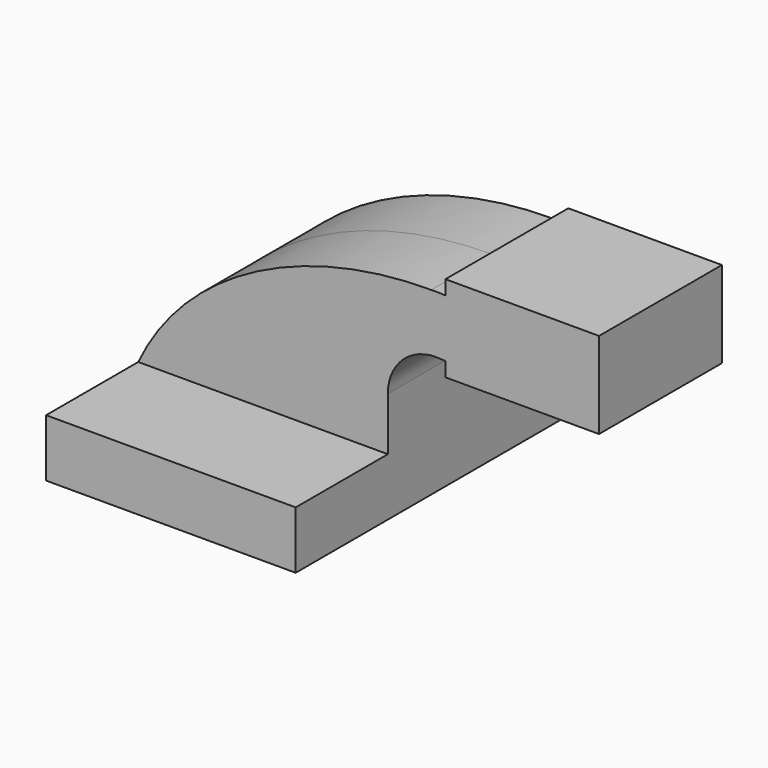
from build123d import *

# Parameters (mm, degrees)
F1_DEPTH = 63.5
F0_W     = 25.4
F0_H     = 4.7752
F0_H_2   = 19.05
F0_H_3   = 4.7498
F2_DEPTH = 25.4


with BuildPart() as f1:
    # F0 (on Front) → F1 (new body, symmetric)
    with BuildSketch(Plane.XZ):
        Polygon((41.275, -9.525), (41.275, 9.525), (22.225, 9.525), (-41.275, 9.525), (-41.275, -9.525), align=None)
    extrude(amount=F1_DEPTH, both=True)

    # F0 (on Front) → F2 (join, symmetric)
    with BuildSketch(Plane.XZ):
        Polygon((41.275, -9.525), (41.275, 9.525), (22.225, 9.525), (-41.275, 9.525), (-41.275, -9.525), align=None)
        with BuildLine():
            Line((22.225, 9.525), (41.275, 9.525))
            Line((41.275, 9.525), (41.275, 27.1268773741))
            ThreePointArc((41.275, 27.1268773741), (46.6561450803, 39.0388307792), (59.1514893133, 42.8752))
            Line((59.1514893133, 42.8752), (60.325, 42.8752))
            Line((60.325, 42.8752), (60.325, 61.9252))
            Line((60.325, 61.9252), (60.121929916, 61.9252))
            add(Edge.make_bspline(
                [(55.6293208142, 62.0187555095), (57.127485442, 62.0129525409), (58.6254396967, 61.9818008646), (60.121929916, 61.9252)],
                knots=[110.0413095345, 110.0413095345, 110.0413095345, 110.0413095345, 114.1364024158, 114.1364024158, 114.1364024158, 114.1364024158], degree=3))
            ThreePointArc((55.6293208142, 62.0187555095), (31.9223827367, 51.2789570407), (22.225, 27.1268773741))
            Line((22.225, 27.1268773741), (22.225, 9.525))
        make_face()
        with BuildLine():
            Line((-41.275, 9.525), (22.225, 9.525))
            Line((22.225, 9.525), (22.225, 27.1268773741))
            ThreePointArc((22.225, 27.1268773741), (31.9223827367, 51.2789570407), (55.6293208142, 62.0187555095))
            add(Edge.make_bspline(
                [(-41.275, 9.525), (-25.0384619127, 44.0268856749), (15.3713822736, 62.1746900101), (55.6293208142, 62.0187555095)],
                knots=[0, 0, 0, 0, 110.0413095345, 110.0413095345, 110.0413095345, 110.0413095345], degree=3))
        make_face()
        with BuildLine():
            ThreePointArc((60.121929916, 61.9252), (57.877131576, 62.0443071861), (55.6293208142, 62.0187555095))
            add(Edge.make_bspline(
                [(55.6293208142, 62.0187555095), (57.127485442, 62.0129525409), (58.6254396967, 61.9818008646), (60.121929916, 61.9252)],
                knots=[110.0413095345, 110.0413095345, 110.0413095345, 110.0413095345, 114.1364024158, 114.1364024158, 114.1364024158, 114.1364024158], degree=3))
        make_face()
        with Locations((73.025, 40.4876)):
            Rectangle(F0_W, F0_H)
        with Locations((73.025, 52.4002)):
            Rectangle(F0_W, F0_H_2)
        with Locations((73.025, 64.3001)):
            Rectangle(F0_W, F0_H_3)
        Polygon((85.725, 61.9252), (85.725, 42.8752), (85.725, 38.1), (111.125, 38.1), (111.125, 66.675), (85.725, 66.675), align=None)
    extrude(amount=F2_DEPTH, both=True)


solid = f1.part
